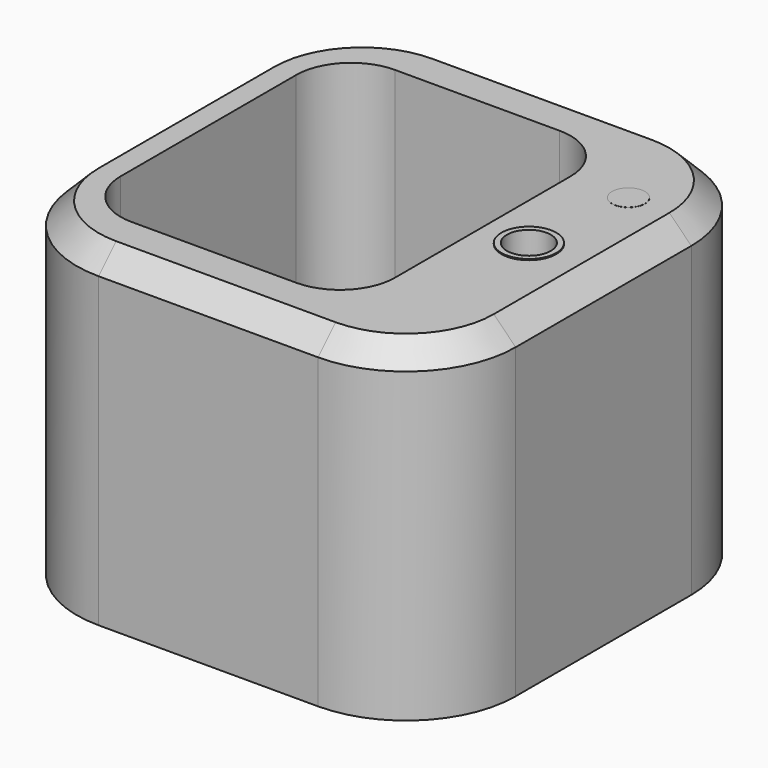
from build123d import *

# Parameters (mm, degrees)
F0_W      = 101.6
F0_H      = 101.6
F1_DEPTH  = 76.2
F3_R      = 25.4
F4_SIZE   = 5.08
F5_DEPTH  = 73.66
F6_R      = 7.676164
F7_DEPTH  = 25.4
F8_R      = 6.35
F9_DEPTH  = 0.254
F10_R     = 5.08
F11_DEPTH = 76.2
F12_R     = 3.81
F13_DEPTH = 0.0254


with BuildPart() as f1:
    # F0 (on Top) → F1 (new body)
    with BuildSketch(Plane.XY):
        Rectangle(F0_W, F0_H)
    extrude(amount=F1_DEPTH)

    # F3
    f3_edges = [f1.edges().sort_by_distance(p)[0] for p in [
        (-50.8, 50.8, 38.1),
        (50.8, 50.8, 38.1),
        (50.8, -50.8, 38.1),
        (-50.8, -50.8, 38.1),
    ]]
    fillet(f3_edges, radius=F3_R)

    # F4
    f4_edges = [f1.edges().sort_by_distance(p)[0] for p in [
        (-50.8, 0, 76.2),
    ]]
    chamfer(f4_edges, length=F4_SIZE)

    # F2 (on face) → F5 (cut)
    with BuildSketch(Plane.XY.offset(76.2)):
        with BuildLine():
            Line((10.16, 38.1), (-27.94, 38.1))
            ThreePointArc((-27.94, 38.1), (-36.920256, 34.380256), (-40.64, 25.4))
            Line((-40.64, 25.4), (-40.64, -25.4))
            ThreePointArc((-40.64, -25.4), (-36.920256, -34.380256), (-27.94, -38.1))
            Line((-27.94, -38.1), (10.16, -38.1))
            ThreePointArc((10.16, -38.1), (19.140256, -34.380256), (22.86, -25.4))
            Line((22.86, -25.4), (22.86, 25.4))
            ThreePointArc((22.86, 25.4), (19.140256, 34.380256), (10.16, 38.1))
        make_face()
    extrude(amount=-F5_DEPTH, mode=Mode.SUBTRACT)

    # F6 (on face) → F7 (cut)
    with BuildSketch(Plane.XY.offset(2.54)):
        Circle(F6_R)
    extrude(amount=-F7_DEPTH, mode=Mode.SUBTRACT)

    # F8 (on face) → F9 (join)
    with BuildSketch(Plane.XY.offset(76.2)):
        with Locations((33.531968, 0)):
            Circle(F8_R)
    extrude(amount=F9_DEPTH)

    # F10 (on face) → F11 (cut)
    with BuildSketch(Plane.XY.offset(76.454)):
        with Locations((33.531968, 0)):
            Circle(F10_R)
    extrude(amount=-F11_DEPTH, mode=Mode.SUBTRACT)

    # F12 (on face) → F13 (join)
    with BuildSketch(Plane.XY.offset(76.2)):
        with Locations((36.258892, 25.4)):
            Circle(F12_R)
    extrude(amount=F13_DEPTH)


solid = f1.part
